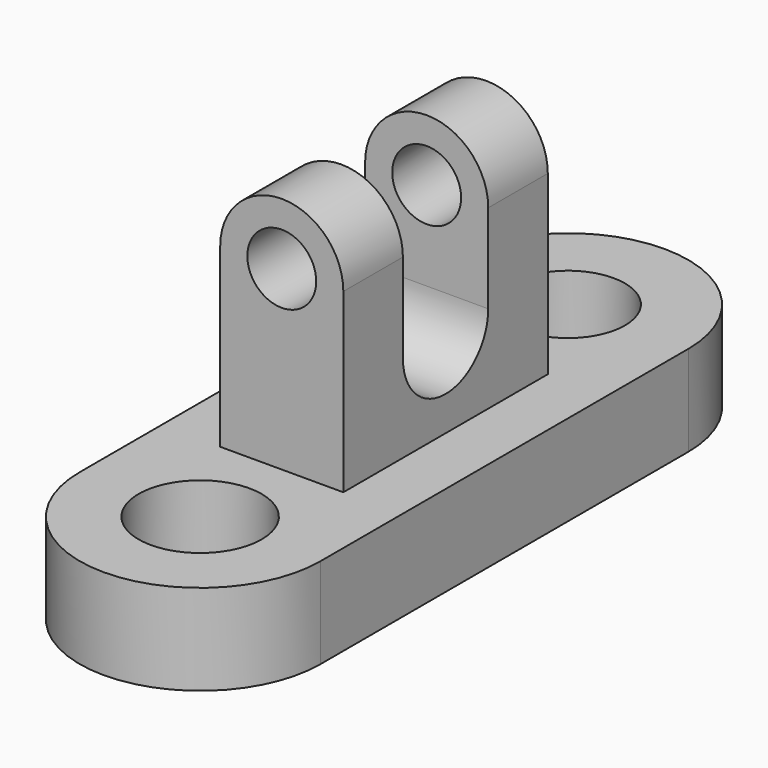
from build123d import *

# Parameters (mm, degrees)
F0_R     = 17.2417566051
F0_R_2   = 15.9851491333
F1_DEPTH = 25.4
F2_R     = 9.6526962005
F3_DEPTH = 35.814
F5_DEPTH = 635


with BuildPart() as f1:
    # F0 (on Top) → F1 (new body)
    with BuildSketch(Plane.XY):
        with BuildLine():
            ThreePointArc((-33.7519310415, -64.4190087914), (0, -98.1709398329), (33.7519310415, -64.4190087914))
            Line((33.7519310415, -64.4190087914), (33.7519310415, 64.4190087914))
            ThreePointArc((33.7519310415, 64.4190087914), (0, 98.1709398329), (-33.7519310415, 64.4190087914))
            Line((-33.7519310415, 64.4190087914), (-33.7519310415, -64.4190087914))
        make_face()
        with Locations((0, -64.4190087914)):
            Circle(F0_R, mode=Mode.SUBTRACT)
        with Locations((0, 64.4190087914)):
            Circle(F0_R_2, mode=Mode.SUBTRACT)
    extrude(amount=F1_DEPTH)

    # F2 (on Front) → F3 (join, symmetric)
    with BuildSketch(Plane.XZ):
        with BuildLine():
            Line((-17.2510873526, 24.3432018906), (17.2510873526, 24.3432018906))
            Line((17.2510873526, 24.3432018906), (17.2510873526, 74.9463941902))
            ThreePointArc((17.2510873526, 74.9463941902), (0, 92.1974815428), (-17.2510873526, 74.9463941902))
            Line((-17.2510873526, 74.9463941902), (-17.2510873526, 24.3432018906))
        make_face()
        with Locations((0, 74.9463941902)):
            Circle(F2_R, mode=Mode.SUBTRACT)
    extrude(amount=F3_DEPTH, both=True)

    # F4 (on Right) → F5 (cut, symmetric)
    with BuildSketch(Plane.YZ):
        with BuildLine():
            ThreePointArc((-14.9509394541, 50.0281564891), (0, 35.077217035), (14.9509394541, 50.0281564891))
            Line((14.9509394541, 50.0281564891), (-14.9509394541, 50.0281564891))
        make_face()
        with BuildLine():
            ThreePointArc((-14.9509394541, 50.0281564891), (0, 64.9790959433), (14.9509394541, 50.0281564891))
            Line((14.9509394541, 50.0281564891), (14.9509394541, 93.7309004366))
            Line((14.9509394541, 93.7309004366), (-14.9509394541, 93.7309004366))
            Line((-14.9509394541, 93.7309004366), (-14.9509394541, 50.0281564891))
        make_face()
        with BuildLine():
            Line((-14.9509394541, 50.0281564891), (14.9509394541, 50.0281564891))
            ThreePointArc((14.9509394541, 50.0281564891), (0, 64.9790959433), (-14.9509394541, 50.0281564891))
        make_face()
    extrude(amount=F5_DEPTH, both=True, mode=Mode.SUBTRACT)


solid = f1.part
